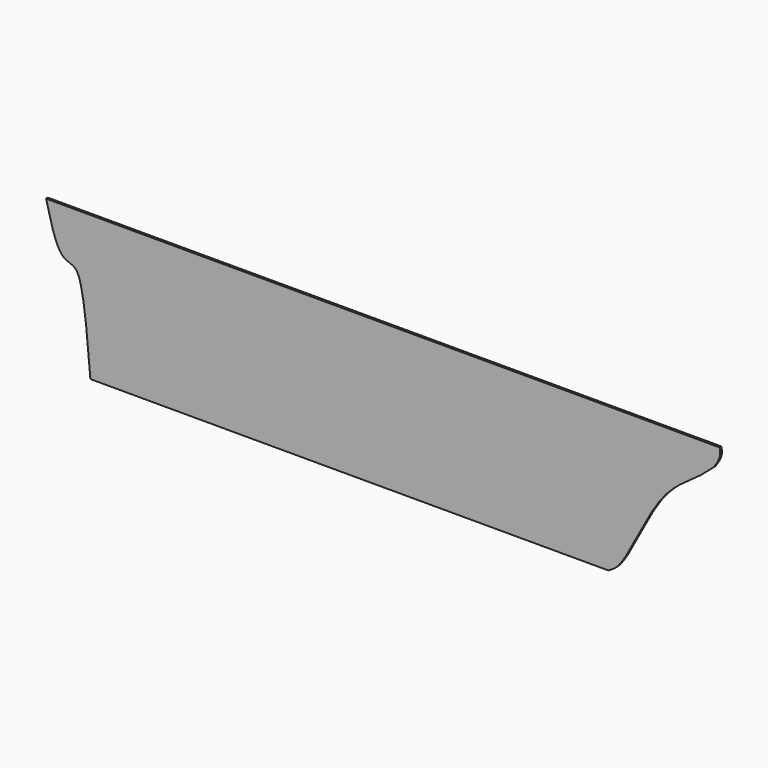
from build123d import *

# Parameters (mm, degrees)
F2_DEPTH = 6


with BuildPart() as f2:
    # F1 (on Front) → F2 (new body)
    with BuildSketch(Plane.XZ):
        with BuildLine():
            Line((752.78621912, 212.0395898819), (-1073.8577842712, 212.0395898819))
            add(Edge.make_bspline(
                [(-1073.8577842712, 212.0395898819), (-1061.5086977382, 162.1830934895), (-1043.0485890614, 87.6548003085), (-1003.401191339, 78.7282678479), (-973.8981010889, 56.1286575368), (-962.3473153112, -78.7268235146), (-953.7000656128, -179.6835064888)],
                knots=[0, 0, 0, 0, 0.3000904584, 0.4485920849, 0.5872002114, 1, 1, 1, 1], degree=3))
            Line((-953.7000656128, -179.6835064888), (450.4153430462, -179.6835064888))
            add(Edge.make_bspline(
                [(736.5652578839, 159.7696638051), (725.1771132617, 149.0920819494), (692.8444844392, 120.3646378027), (616.1600812269, 73.9010347685), (552.4808726291, -22.2759684969), (487.9055899897, -159.690649083), (459.8192014638, -174.6686021941), (450.4153430462, -179.6835064888)],
                knots=[0.0577573075, 0.0577573075, 0.0577573075, 0.0577573075, 0.1775304373, 0.3822550082, 0.6150712544, 0.8711185163, 1, 1, 1, 1], degree=3))
            add(Edge.make_bspline(
                [(752.78621912, 212.0395898819), (753.7641763207, 204.8030051476), (755.9483618095, 188.640699318), (743.4979613071, 170.0473784292), (736.5652578839, 159.7696638051)],
                knots=[0, 0, 0, 0, 0.4445740939, 0.9929189989, 0.9929189989, 0.9929189989, 0.9929189989], degree=3))
        make_face()
    extrude(amount=-F2_DEPTH)


solid = f2.part
